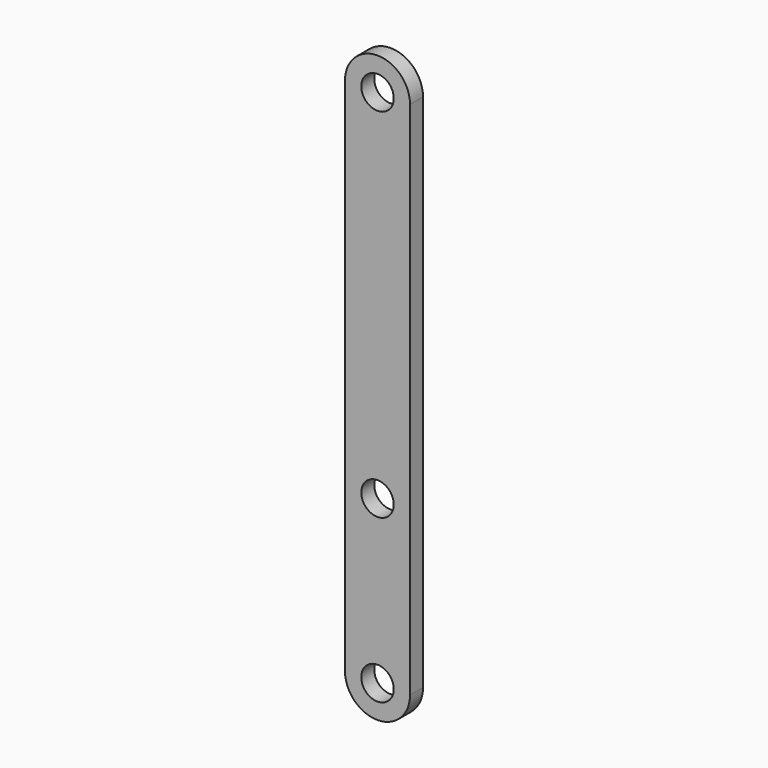
from build123d import *

# Parameters (mm, degrees)
F0_R     = 5
F1_DEPTH = 5


with BuildPart() as f1:
    # F0 (on Front) → F1 (new body)
    with BuildSketch(Plane.XZ):
        with BuildLine():
            Line((10, 0), (5, 0))
            ThreePointArc((5, 0), (0, -5), (-5, 0))
            Line((-5, 0), (-10, 0))
            ThreePointArc((-10, 0), (0, -10), (10, 0))
        make_face()
        with BuildLine():
            ThreePointArc((-5, 0), (0, 5), (5, 0))
            Line((5, 0), (10, 0))
            ThreePointArc((10, 0), (0, 10), (-10, 0))
            Line((-10, 0), (-5, 0))
        make_face()
        with BuildLine():
            Line((10, -160), (10, 0))
            ThreePointArc((10, 0), (0, -10), (-10, 0))
            Line((-10, 0), (-10, -160))
            ThreePointArc((-10, -160), (0, -150), (10, -160))
        make_face()
        with Locations((0, -110)):
            Circle(F0_R, mode=Mode.SUBTRACT)
        with BuildLine():
            ThreePointArc((-10, -160), (0, -170), (10, -160))
            Line((10, -160), (5, -160))
            ThreePointArc((5, -160), (0, -165), (-5, -160))
            Line((-5, -160), (-10, -160))
        make_face()
        with BuildLine():
            Line((5, -160), (10, -160))
            ThreePointArc((10, -160), (0, -150), (-10, -160))
            Line((-10, -160), (-5, -160))
            ThreePointArc((-5, -160), (0, -155), (5, -160))
        make_face()
    extrude(amount=F1_DEPTH)


solid = f1.part
